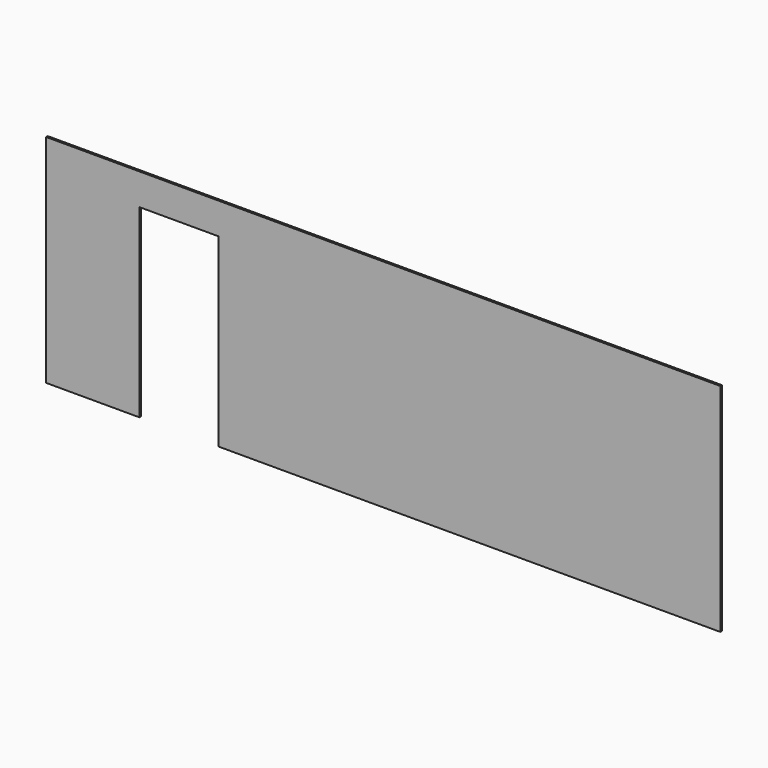
from build123d import *

# Parameters (mm, degrees)
F0_W     = 5
F0_H     = 32.75
F0_W_2   = 4
F1_DEPTH = 0.3


with BuildPart() as f1:
    # F0 (on Front) → F1 (new body)
    with BuildSketch(Plane.XZ):
        with Locations((74.734603, 74.0154)):
            Rectangle(F0_W, F0_H)
        Polygon((123.234603, 57.6404), (170.234603, 57.6404), (170.234603, 90.3904), (77.234603, 90.3904), (77.234603, 57.6404), (86.334603, 57.6404), (86.334603, 85.6404), (98.334603, 85.6404), (98.334603, 57.6404), align=None)
        with Locations((172.234603, 74.0154)):
            Rectangle(F0_W_2, F0_H)
    extrude(amount=F1_DEPTH)


solid = f1.part
